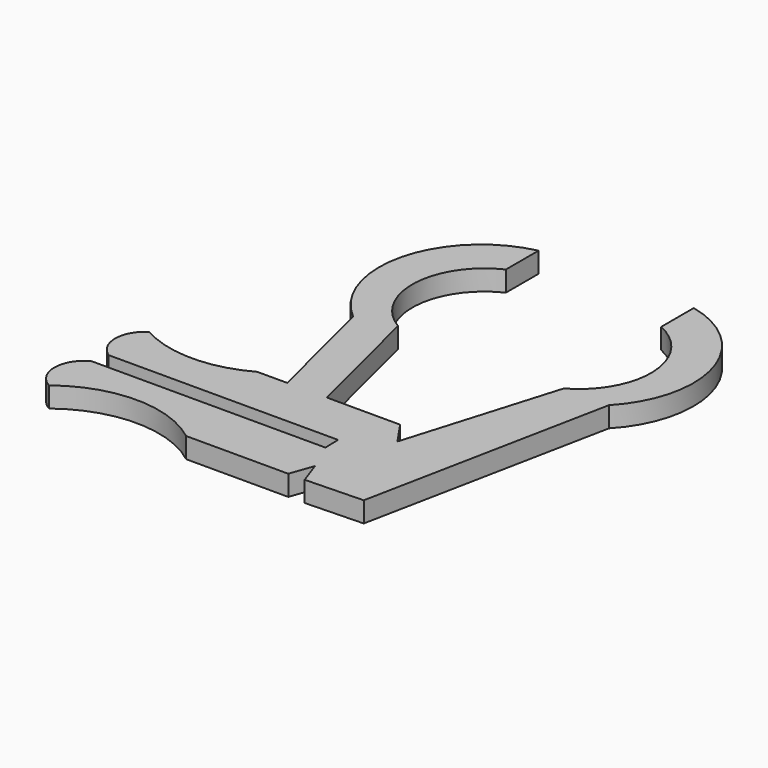
from build123d import *

# Parameters (mm, degrees)
F1_DEPTH = 5


with BuildPart() as f1:
    # F0 (on Top) → F1 (new body)
    with BuildSketch(Plane.XY):
        with BuildLine():
            Line((-29, -49.111746), (-4, -49.111746))
            Line((-4, -49.111746), (-2, -43.454892))
            Line((-2, -43.454892), (0, -49.111746))
            Line((0, -49.111746), (14.138056, -48.681084))
            Line((14.138056, -48.681084), (26.140995, 11.376957))
            ThreePointArc((26.140995, 11.376957), (31.996814, 35.775432), (13.674624, 52.918172))
            Line((13.674624, 52.918172), (13.674624, 42.918172))
            ThreePointArc((13.674624, 42.918172), (24.102227, 27.578979), (15.073372, 11.376957))
            Line((15.073372, 11.376957), (5.690705, -19.879257))
            Line((5.690705, -19.879257), (3.957444, -25.653219))
            Line((3.957444, -25.653219), (0, -19.879257))
            Line((0, -19.879257), (-9.469999, -19.879257))
            Line((-9.469999, -19.879257), (-17.934096, -19.865615))
            Line((-17.934096, -19.865615), (-25.859596, 11.769298))
            ThreePointArc((-25.859596, 11.769298), (-34.454402, 27.799101), (-24.343073, 42.918172))
            Line((-24.343073, 42.918172), (-24.343073, 52.918172))
            ThreePointArc((-24.343073, 52.918172), (-43.170902, 34.510586), (-35, 9.479351))
            Line((-35, 9.479351), (-27.648201, -19.865615))
            Line((-27.648201, -19.865615), (-35, -19.865615))
            ThreePointArc((-35, -19.865615), (-48.24198, -23.286798), (-61.483961, -19.865615))
            ThreePointArc((-61.483961, -19.865615), (-64.846218, -26.04087), (-61.483961, -32.216124))
            Line((-61.483961, -32.216124), (-5.334225, -32.216124))
            Line((-5.334225, -32.216124), (-5.22055, -36.216124))
            Line((-5.22055, -36.216124), (-62.588125, -36.216124))
            ThreePointArc((-62.588125, -36.216124), (-66.40777, -42.663935), (-62.588125, -49.111746))
            ThreePointArc((-62.588125, -49.111746), (-45.794063, -43.345075), (-29, -49.111746))
        make_face()
    extrude(amount=F1_DEPTH)


solid = f1.part
